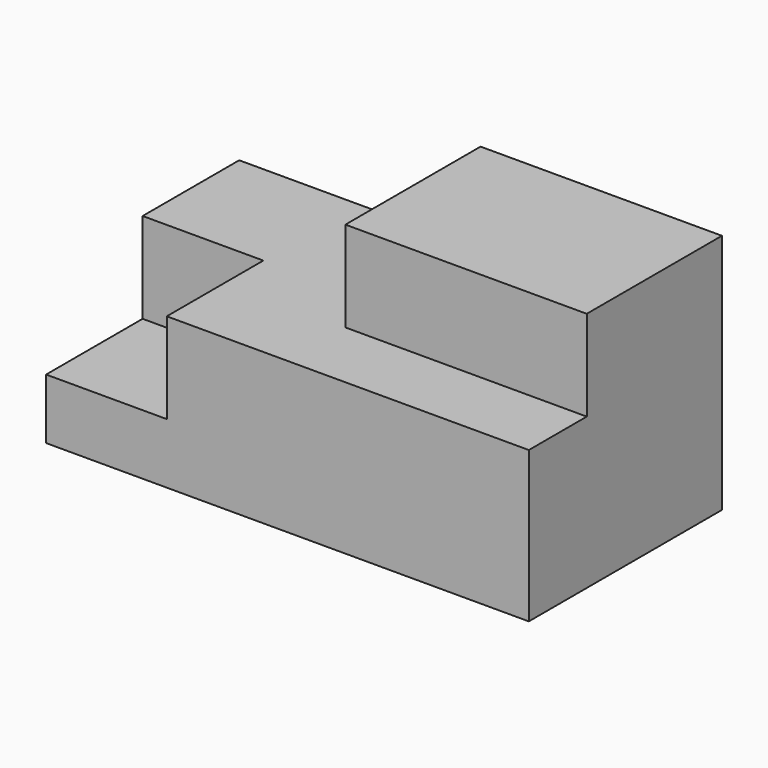
from build123d import *

# Parameters (mm, degrees)
F0_W     = 2032
F0_H     = 889
F1_DEPTH = 1016
F2_W     = 1016
F2_H     = 711.2
F3_DEPTH = 381
F4_W     = 508
F4_H     = 508
F5_DEPTH = 381
F6_W     = 2032
F6_H     = 1016
F7_DEPTH = 254


with BuildPart() as f1:
    # F0 (on Front) → F1 (new body)
    with BuildSketch(Plane.XZ):
        with Locations((99.253088, 24.958827)):
            Rectangle(F0_W, F0_H)
    extrude(amount=F1_DEPTH)

    # F2 (on face) → F3 (join)
    with BuildSketch(Plane.XY.offset(469.458827)):
        with Locations((607.253088, -355.6)):
            Rectangle(F2_W, F2_H)
        with Locations((607.253088, -355.6)):
            Rectangle(F2_W, F2_H)
    extrude(amount=F3_DEPTH)

    # F4 (on face) → F5 (cut)
    with BuildSketch(Plane.XY.offset(469.458827)):
        with Locations((-662.746912, -762)):
            Rectangle(F4_W, F4_H)
    extrude(amount=-F5_DEPTH, mode=Mode.SUBTRACT)

    # F6 (on face) → F7 (cut)
    with BuildSketch(Plane(origin=(0, 0, -419.541173), x_dir=(1, 0, 0), z_dir=(0, 0, -1))):
        with Locations((99.253088, 508)):
            Rectangle(F6_W, F6_H)
    extrude(amount=-F7_DEPTH, mode=Mode.SUBTRACT)


solid = f1.part
